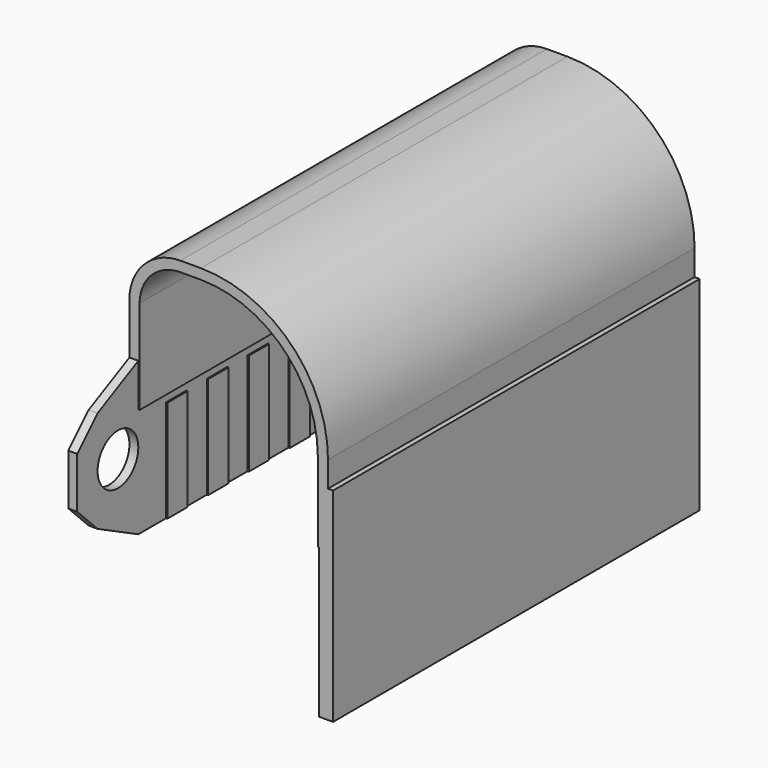
from build123d import *

# Parameters (mm, degrees)
PAD_DEPTH       = 4.5
POCKET_DEPTH    = 0.025
POCKET001_DEPTH = 0.025
SKETCH003_R     = 0.5
PAD001_DEPTH    = 0.175


with BuildPart() as part:
    # Sketch → Pad (new body, symmetric)
    with BuildSketch(Plane.XZ):
        with BuildLine():
            Line((0, 0), (0, 4))
            ThreePointArc((0.8, 4.8), (0.234315, 4.565685), (0, 4))
            Line((0.8, 4.8), (1.201873, 4.8))
            ThreePointArc((3.5, 2.501873), (2.826894, 4.126894), (1.201873, 4.8))
            Line((3.5, 2.501873), (3.5, -2))
            Line((3.5, -2), (3.8, -2))
            Line((3.8, 2), (3.8, -2))
            Line((3.7, 2), (3.8, 2))
            Line((3.7, 2.501873), (3.7, 2))
            ThreePointArc((3.7, 2.501873), (2.968316, 4.268316), (1.201873, 5))
            Line((0.8, 5), (1.201873, 5))
            ThreePointArc((0.8, 5), (0.092893, 4.707107), (-0.2, 4))
            Line((-0.2, 0), (-0.2, 4))
            Line((0, 0), (-0.2, 0))
        make_face()
    extrude(amount=PAD_DEPTH, both=True)

    # Sketch001 (on Face1 of Pad) → Pocket (cut)
    with BuildSketch(Plane(origin=(0, 0, 0), x_dir=(0, 0, 1), z_dir=(1, 0, 0))):
        Polygon((0, 3.818103), (2.005794, 3.818103), (2.005794, 3.318103), (0, 3.318103), (0, 2.818103), (2.005794, 2.818103), (2.005794, 2.318103), (0, 2.318103), (0, 1.818103), (2.005794, 1.818103), (2.005794, 1.318103), (0, 1.318103), (0, 0.818103), (2.005794, 0.818103), (2.005794, 0.318103), (0, 0.318103), (0, -0.181897), (2.005794, -0.181897), (2.005794, -0.681897), (0, -0.681897), (0, -1.181897), (2.005794, -1.181897), (2.005794, -1.681897), (0, -1.681897), (0, -2.181897), (2.005794, -2.181897), (2.005794, -2.681897), (0, -2.681897), (0, -3.181897), (2.005794, -3.181897), (2.005794, -3.681897), (0, -3.681897), (0, -4.5), (2.156164, -4.5), (2.156164, 4.5), (0, 4.5), align=None)
    extrude(amount=-POCKET_DEPTH, mode=Mode.SUBTRACT)

    # Sketch002 (on Face16 of Pocket) → Pocket001 (cut)
    with BuildSketch(Plane(origin=(3.5, 0, 0), x_dir=(0, 0, -1), z_dir=(-1, 0, 0))):
        Polygon((2, 3.749999), (-0.673578, 3.749999), (-0.673578, 3.249999), (2, 3.249999), (1.998494, 2.750001), (-0.675084, 2.750001), (-0.675084, 2.250001), (2, 2.250001), (2, 1.750001), (-0.673578, 1.750001), (-0.673578, 1.250001), (2, 1.250001), (2, 0.750001), (-0.673578, 0.750001), (-0.673578, 0.250001), (2, 0.250001), (2, -0.249999), (-0.673578, -0.249999), (-0.673578, -0.749999), (2, -0.749999), (2, -1.249999), (-0.673578, -1.249999), (-0.673578, -1.749999), (2, -1.749999), (2, -2.249999), (-0.673578, -2.249999), (-0.673578, -2.749999), (2, -2.749999), (2, -3.249999), (-0.673578, -3.249999), (-0.673578, -3.749999), (2, -3.749999), (2, -4.5), (-0.931806, -4.5), (-0.931806, 4.5), (2, 4.5), align=None)
    extrude(amount=-POCKET001_DEPTH, mode=Mode.SUBTRACT)

    # Sketch003 (on Face8 of Pocket001) → Pad001 (join)
    with BuildSketch(Plane(origin=(-0.2, 0, 0), x_dir=(0, 0, -1), z_dir=(-1, 0, 0))):
        Polygon((0, -4.5), (-0.5, -5.5), (-1, -6), (-2, -6), (-2.5, -5.5), (-3, -4.5), align=None)
        with Locations((-1.5, -5)):
            Circle(SKETCH003_R, mode=Mode.SUBTRACT)
        Polygon((0, 4.5), (-3, 4.5), (-2.5, 5.5), (-2, 6), (-1, 6), (-0.5, 5.5), align=None)
        with Locations((-1.5, 5)):
            Circle(SKETCH003_R, mode=Mode.SUBTRACT)
    extrude(amount=-PAD001_DEPTH)


solid = part.part
